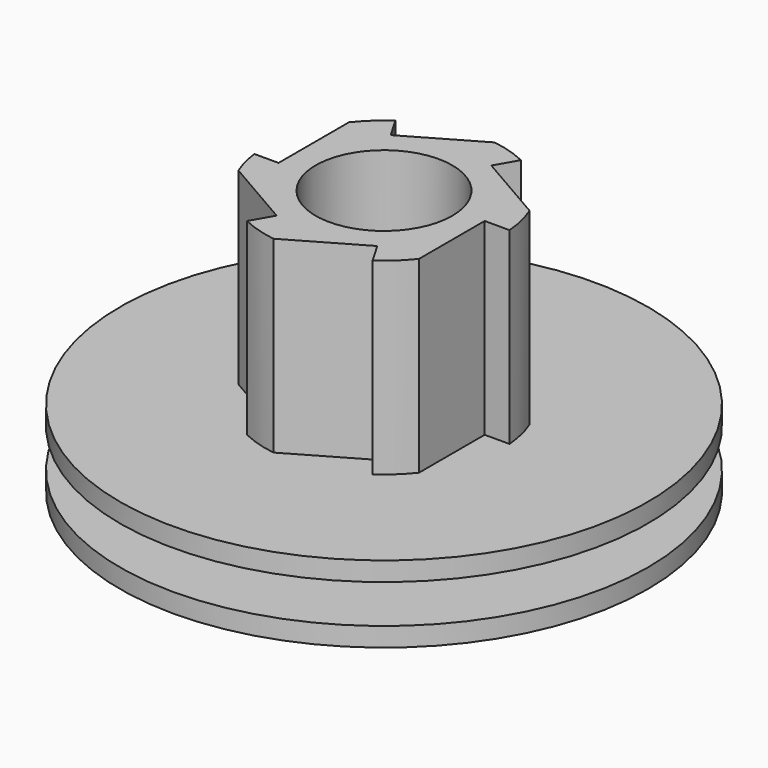
from build123d import *

# Parameters (mm, degrees)
F2_R      = 8.4836
F3_DEPTH  = 32.893
F2_R_2    = 6.096
F4_DEPTH  = 15.621
F5_DEPTH  = 25.4
F6_R      = 6.096
F7_DEPTH  = 5.588
F9_DEPTH  = 25.4
F10_DEPTH = 4.064


with BuildPart() as f1:
    # F0 (on Front) → F1 (revolve)
    with BuildSketch(Plane.XZ):
        with BuildLine():
            Line((-32.766, 0), (0, 0))
            Line((0, 0), (0, 9.525))
            Line((0, 9.525), (-32.766, 9.525))
            Line((-32.766, 9.525), (-32.766, 7.1613881737))
            Line((-32.766, 7.1613881737), (-18.1468881737, 7.1613881737))
            ThreePointArc((-18.1468881737, 7.1613881737), (-15.748, 4.7625), (-18.1468881737, 2.3636118263))
            Line((-18.1468881737, 2.3636118263), (-32.766, 2.3636118263))
            Line((-32.766, 2.3636118263), (-32.766, 0))
        make_face()
    revolve(axis=Axis((0, 0, 13.9041366056), (0, 0, 1)))

    # F2 (on Top) → F3 (join)
    with BuildSketch(Plane.XY):
        with BuildLine():
            Line((-11.6078, -1.8505721543), (-14.6153072736, -1.8505721543))
            ThreePointArc((-14.6153072736, -1.8505721543), (-14.2560030009, -3.7145931726), (-13.659986963, -5.5169357592))
            Line((-13.659986963, -5.5169357592), (-4.8393499563, -10.6095329094))
            Line((-4.8393499563, -10.6095329094), (-6.3803690894, -13.2786563433))
            ThreePointArc((-6.3803690894, -13.2786563433), (-4.2668294637, -14.1005670215), (-2.052186963, -14.5883636049))
            Line((-2.052186963, -14.5883636049), (6.7684500437, -9.4957664547))
            Line((6.7684500437, -9.4957664547), (8.3094691767, -12.1648898886))
            ThreePointArc((8.3094691767, -12.1648898886), (10.0780345166, -10.7454662199), (11.6078, -9.0714278457))
            Line((11.6078, -9.0714278457), (11.6078, 1.1137664547))
            Line((11.6078, 1.1137664547), (14.6898382661, 1.1137664547))
            ThreePointArc((14.6898382661, 1.1137664547), (14.3448639802, 3.3551008016), (13.659986963, 5.5169357592))
            Line((13.659986963, 5.5169357592), (4.8393499563, 10.6095329094))
            Line((4.8393499563, 10.6095329094), (6.3803690894, 13.2786563433))
            ThreePointArc((6.3803690894, 13.2786563433), (4.2668294637, 14.1005670215), (2.052186963, 14.5883636049))
            Line((2.052186963, 14.5883636049), (-5.8039, 10.052649682))
            Line((-5.8039, 10.052649682), (-6.7684500437, 9.4957664547))
            Line((-6.7684500437, 9.4957664547), (-8.3094691767, 12.1648898886))
            ThreePointArc((-8.3094691767, 12.1648898886), (-10.0780345166, 10.7454662199), (-11.6078, 9.0714278457))
            Line((-11.6078, 9.0714278457), (-11.6078, 0))
            Line((-11.6078, 0), (-11.6078, -1.8505721543))
        make_face()
        Circle(F2_R, mode=Mode.SUBTRACT)
    extrude(amount=F3_DEPTH)

    # F2 (on Top) → F4 (join)
    with BuildSketch(Plane.XY):
        Circle(F2_R)
        Circle(F2_R_2, mode=Mode.SUBTRACT)
    extrude(amount=F4_DEPTH)

    # F2 (on Top) → F5 (cut)
    with BuildSketch(Plane.XY):
        Circle(F2_R_2)
    extrude(amount=F5_DEPTH, mode=Mode.SUBTRACT)

    # F6 (on face) → F7 (join)
    with BuildSketch(Plane(origin=(0, 0, 0), x_dir=(1, 0, 0), z_dir=(0, 0, -1))):
        with BuildLine():
            Line((-8.0137, 1.9177), (-8.0137, -8.3625714986))
            ThreePointArc((-8.0137, -8.3625714986), (-5.1960588966, -10.3514714752), (-1.9177, -11.4225398432))
            Line((-1.9177, -11.4225398432), (-1.9177, -8.0137))
            Line((-1.9177, -8.0137), (8.3625714986, -8.0137))
            ThreePointArc((8.3625714986, -8.0137), (10.3514714752, -5.1960588966), (11.4225398432, -1.9177))
            Line((11.4225398432, -1.9177), (8.0137, -1.9177))
            Line((8.0137, -1.9177), (8.0137, 8.3625714986))
            ThreePointArc((8.0137, 8.3625714986), (5.1960588966, 10.3514714752), (1.9177, 11.4225398432))
            Line((1.9177, 11.4225398432), (1.9177, 8.0137))
            Line((1.9177, 8.0137), (-8.3625714986, 8.0137))
            ThreePointArc((-8.3625714986, 8.0137), (-10.3514714752, 5.1960588966), (-11.4225398432, 1.9177))
            Line((-11.4225398432, 1.9177), (-8.0137, 1.9177))
        make_face()
        Circle(F6_R, mode=Mode.SUBTRACT)
    extrude(amount=F7_DEPTH)

    # F8 (on face) → F9 (cut)
    with BuildSketch(Plane.XY.offset(9.525)):
        with BuildLine():
            ThreePointArc((-8.1849360794, 20.1539266654), (-6.9739301336, 12.0260401102), (-0.0684106271, 16.4805743843))
            ThreePointArc((-0.0684106271, 16.4805743843), (-1.2729957626, 19.6943902925), (-4.293224081, 21.3246844208))
            ThreePointArc((-4.293224081, 21.3246844208), (-6.3664785516, 21.1627903823), (-8.1849360794, 20.1539266654))
        make_face()
    extrude(amount=-F9_DEPTH, mode=Mode.SUBTRACT)

    # F8 (on face) → F10 (cut)
    with BuildSketch(Plane.XY.offset(9.525)):
        with BuildLine():
            ThreePointArc((-8.1849360794, 20.1539266654), (-6.3664785516, 21.1627903823), (-4.293224081, 21.3246844208))
            Line((-4.293224081, 21.3246844208), (-7.4752096352, 31.90191212))
            ThreePointArc((-7.4752096352, 31.90191212), (-9.4392344031, 31.3769279867), (-11.3669216335, 30.7311543645))
            Line((-11.3669216335, 30.7311543645), (-8.1849360794, 20.1539266654))
        make_face()
    extrude(amount=-F10_DEPTH, mode=Mode.SUBTRACT)


solid = f1.part
